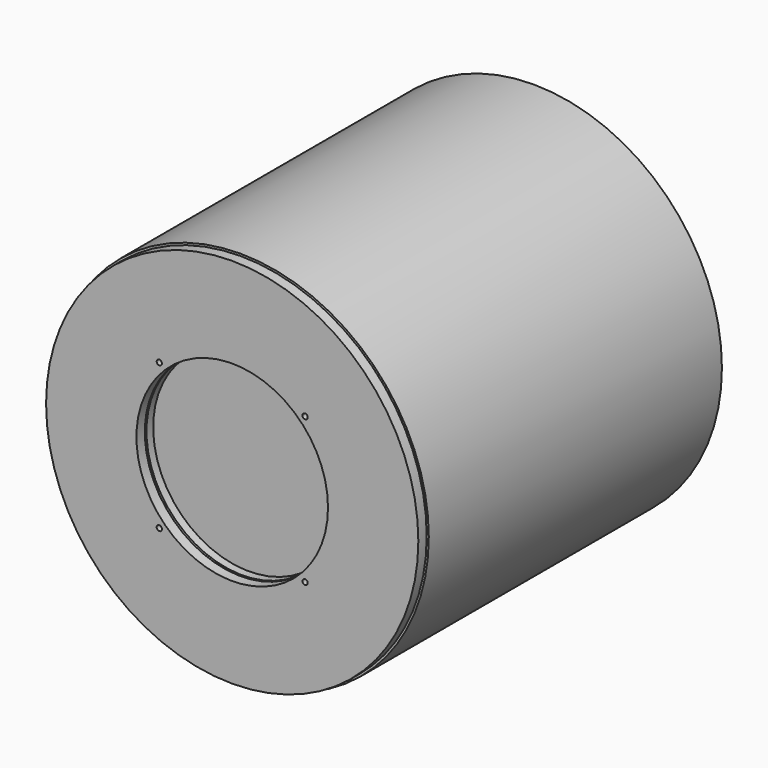
from build123d import *

# Parameters (mm, degrees)
SKETCH_R      = 102.5
SKETCH_R_2    = 91.5
SKETCH_R_3    = 2.5
PAD_DEPTH     = 8
SKETCH002_R   = 177.8
SKETCH002_R_2 = 91.5
SKETCH002_R_3 = 2.5
PAD001_DEPTH  = 10
SKETCH003_R   = 179.8
SKETCH003_R_2 = 177.8
PAD002_DEPTH  = 350
SKETCH004_R   = 177.8
PAD003_DEPTH  = 10


with BuildPart() as back:
    # Sketch001 → Revolution (revolve)
    with BuildSketch(Plane.YZ):
        Polygon((0, 91.5), (0, 0), (81, 0), (81, 50), (61, 50), (61, 30), (45, 30), align=None)
    revolve(axis=Axis((0, 0, 0), (0, 1, 0)))


with BuildPart() as obj1:
    # Sketch → Pad (new body)
    with BuildSketch(Plane.XZ):
        Circle(SKETCH_R)
        Circle(SKETCH_R_2, mode=Mode.SUBTRACT)
        with Locations((69.65, 69.65)):
            Circle(SKETCH_R_3, mode=Mode.SUBTRACT)
        with Locations((-69.65, 69.65)):
            Circle(SKETCH_R_3, mode=Mode.SUBTRACT)
        with Locations((-69.65, -69.65)):
            Circle(SKETCH_R_3, mode=Mode.SUBTRACT)
        with Locations((69.65, -69.65)):
            Circle(SKETCH_R_3, mode=Mode.SUBTRACT)
    extrude(amount=PAD_DEPTH)

    # Fusion: union Back
    add(back.part)


with BuildPart() as platte:
    # Sketch002 → Pad001 (new body)
    with BuildSketch(Plane.XZ):
        Circle(SKETCH002_R)
        Circle(SKETCH002_R_2, mode=Mode.SUBTRACT)
        with Locations((-69.65, -69.65)):
            Circle(SKETCH002_R_3, mode=Mode.SUBTRACT)
        with Locations((69.65, -69.65)):
            Circle(SKETCH002_R_3, mode=Mode.SUBTRACT)
        with Locations((-69.65, 69.65)):
            Circle(SKETCH002_R_3, mode=Mode.SUBTRACT)
        with Locations((69.65, 69.65)):
            Circle(SKETCH002_R_3, mode=Mode.SUBTRACT)
    extrude(amount=PAD001_DEPTH)


with BuildPart() as platte_1:
    # Body002 placement: moved
    add(platte.part.moved(Location((0, -10, 0))))


with BuildPart() as obj2:
    # Sketch003 → Pad002 (new body)
    with BuildSketch(Plane.XZ):
        Circle(SKETCH003_R)
        Circle(SKETCH003_R_2, mode=Mode.SUBTRACT)
    extrude(amount=-PAD002_DEPTH)


with BuildPart() as obj2_1:
    # Body003 placement: moved
    add(obj2.part.moved(Location((0, -10, 0))))


with BuildPart() as obj3:
    # Sketch004 → Pad003 (new body)
    with BuildSketch(Plane.XZ):
        Circle(SKETCH004_R)
    extrude(amount=PAD003_DEPTH)


with BuildPart() as obj3_1:
    # Body004 placement: moved
    add(obj3.part.moved(Location((0, 340, 0))))


solid = Compound([obj1.part, platte_1.part, obj2_1.part, obj3_1.part])
